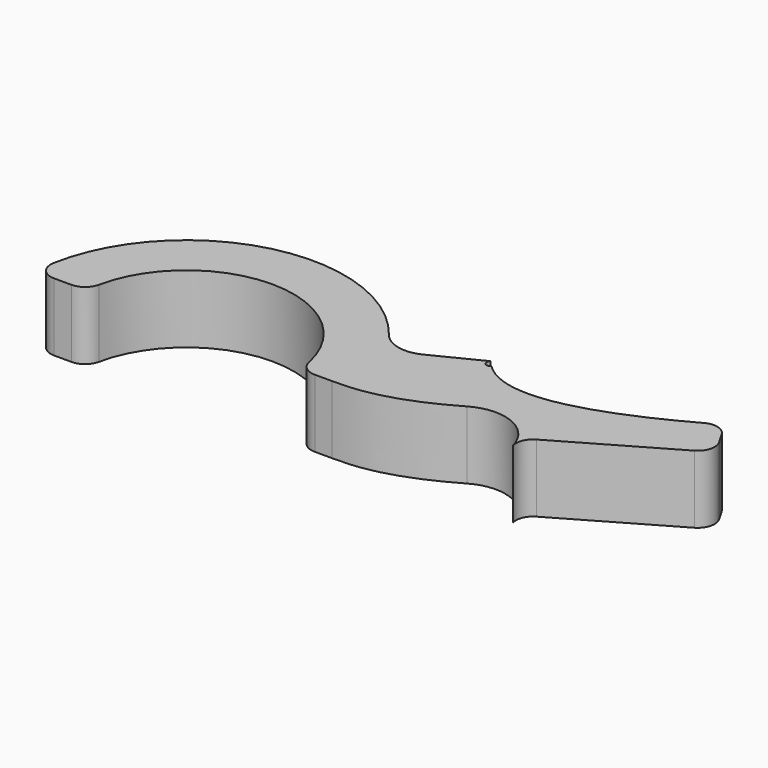
from build123d import *

# Parameters (mm, degrees)
F1_DEPTH = 6.35


with BuildPart() as f1:
    # F0 (on Top) → F1 (new body)
    with BuildSketch(Plane.XY):
        with BuildLine():
            ThreePointArc((-9.821733, 8.23311), (-11.941268, 7.973566), (-13.745828, 9.115212))
            ThreePointArc((-13.745828, 9.115212), (-28.934723, 14.367065), (-39.953058, 2.667458))
            ThreePointArc((-39.953058, 2.667458), (-39.611102, 1.364933), (-38.391571, 0.79375))
            Line((-38.391571, 0.79375), (-36.773903, 0.79375))
            ThreePointArc((-36.773903, 0.79375), (-35.772971, 1.149061), (-35.220091, 2.055943))
            ThreePointArc((-35.220091, 2.055943), (-25.4, 10.033), (-15.579909, 2.055943))
            ThreePointArc((-15.579909, 2.055943), (-15.027029, 1.149061), (-14.026097, 0.79375))
            Line((-14.026097, 0.79375), (-12.408425, 0.79375))
            add(Edge.make_bspline(
                [(-12.408425, 0.79375), (-10.625807, 0.79375), (-7.451685, 0.79375), (-2.206625, 3.821987)],
                knots=[0, 0, 0, 0, 10.641754, 10.641754, 10.641754, 10.641754], degree=3))
            ThreePointArc((-2.206625, 3.821987), (1.700976, 4.072279), (4.26958, 1.1169))
            ThreePointArc((4.26958, 1.1169), (4.340551, 2.130524), (5.01165, 2.893477))
            Line((5.01165, 2.893477), (15.122969, 8.73125))
            ThreePointArc((15.122969, 8.73125), (15.862626, 9.69519), (15.704034, 10.899815))
            Line((15.704034, 10.899815), (15.076715, 11.986363))
            ThreePointArc((15.076715, 11.986363), (14.128896, 12.72161), (12.937273, 12.583837))
            add(Edge.make_bspline(
                [(-4.793212, 9.911958), (-1.45199, 6.570736), (5.2496, 8.358633), (12.937273, 12.583837)],
                knots=[0, 0, 0, 0, 18.323026, 18.323026, 18.323026, 18.323026], degree=3))
            ThreePointArc((-4.793212, 9.911958), (-5.354478, 9.911958), (-5.354478, 10.473224))
            Line((-5.354478, 10.473224), (-9.821733, 8.23311))
        make_face()
    extrude(amount=F1_DEPTH)


solid = f1.part
